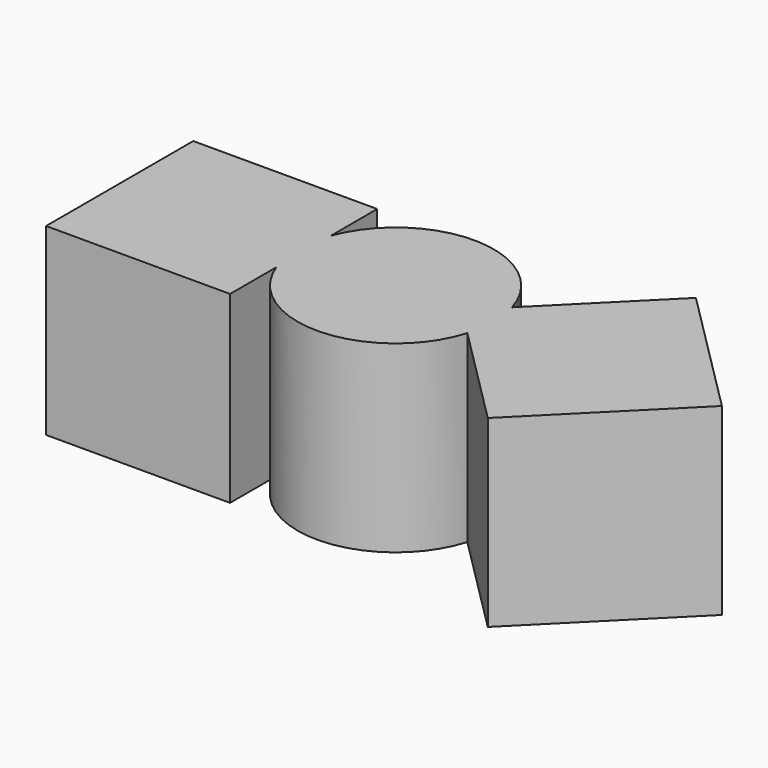
from build123d import *

# Parameters (mm, degrees)
F1_DEPTH = 15


with BuildPart() as f1:
    # F0 (on Top) → F1 (new body)
    with BuildSketch(Plane.XY):
        with BuildLine():
            Line((-15, 15), (-15, 0))
            Line((-15, 0), (0, 0))
            Line((0, 0), (0, 4.7161178186))
            ThreePointArc((0, 4.7161178186), (-0.5, 7.5), (0, 10.2838821814))
            Line((0, 10.2838821814), (0, 15))
            Line((0, 15), (-15, 15))
        make_face()
        with BuildLine():
            ThreePointArc((0, 10.2838821814), (-0.5, 7.5), (0, 4.7161178186))
            Line((0, 4.7161178186), (0, 10.2838821814))
        make_face()
        with BuildLine():
            Line((0, 10.2838821814), (0, 4.7161178186))
            ThreePointArc((0, 4.7161178186), (7.767691449, -0.4955200762), (15.1694060239, 5.2239922583))
            Line((15.1694060239, 5.2239922583), (12.8933982822, 7.5))
            Line((12.8933982822, 7.5), (15.1694060239, 9.7760077417))
            ThreePointArc((15.1694060239, 9.7760077417), (7.767691449, 15.4955200762), (0, 10.2838821814))
        make_face()
        with BuildLine():
            Line((12.8933982822, 7.5), (15.1694060239, 5.2239922583))
            ThreePointArc((15.1694060239, 5.2239922583), (15.4169201143, 6.3500539559), (15.5, 7.5))
            ThreePointArc((15.5, 7.5), (15.4169201143, 8.6499460441), (15.1694060239, 9.7760077417))
            Line((15.1694060239, 9.7760077417), (12.8933982822, 7.5))
        make_face()
        with BuildLine():
            ThreePointArc((15.5, 7.5), (15.4169201143, 6.3500539559), (15.1694060239, 5.2239922583))
            Line((15.1694060239, 5.2239922583), (23.5, -3.1066017178))
            Line((23.5, -3.1066017178), (34.1066017178, 7.5))
            Line((34.1066017178, 7.5), (23.5, 18.1066017178))
            Line((23.5, 18.1066017178), (15.1694060239, 9.7760077417))
            ThreePointArc((15.1694060239, 9.7760077417), (15.4169201143, 8.6499460441), (15.5, 7.5))
        make_face()
    extrude(amount=F1_DEPTH)


solid = f1.part
